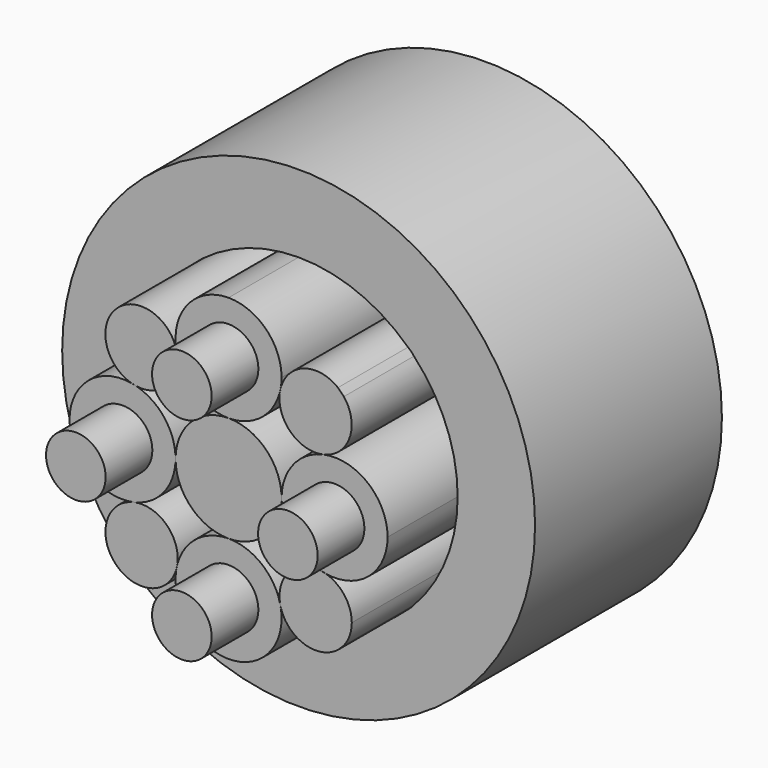
from build123d import *

# Parameters (mm, degrees)
F0_R           = 6.4844466941
F1_DEPTH       = 44.45
F2_DEPTH       = 57.15
F3_DEPTH       = 44.45
F4_DEPTH       = 57.15
F5_DEPTH       = 44.45
F6_DEPTH       = 44.45
F7_DEPTH       = 44.45
F8_DEPTH       = 44.45
F9_DEPTH       = 44.45
F10_DEPTH      = 57.15
F11_DEPTH      = 44.45
F12_DEPTH      = 57.15
F13_DEPTH      = 44.45
F0_R_2         = 51.4356597364
F14_DEPTH      = 25.4
F14_DEPTH_BACK = 25.4


with BuildPart() as f1:
    # F0 (on Front) → F1 (new body)
    with BuildSketch(Plane.XZ):
        with BuildLine():
            ThreePointArc((-11.2475634808, 20.5177545372), (-7.198803281, 14.0527878203), (-1.41e-08, 11.5297964744))
            ThreePointArc((-1.41e-08, 11.5297964744), (7.0440139558, 13.9312449997), (11.1542048678, 20.1353902667))
            ThreePointArc((11.1542048678, 20.1353902667), (11.2430218597, 20.6145358258), (11.3613629352, 21.0872559488))
            ThreePointArc((11.3613629352, 21.0872559488), (11.4889619066, 22.0706629743), (11.5316, 23.0613964744))
            ThreePointArc((11.5316, 23.0613964744), (8.1540725102, 31.2154690801), (-1.351e-07, 34.5929964744))
            ThreePointArc((-1.351e-07, 34.5929964744), (-8.955812233, 30.3257770954), (-11.2835042825, 20.6822517398))
            ThreePointArc((-11.2835042825, 20.6822517398), (-11.2650933427, 20.6000993914), (-11.2475634808, 20.5177545372))
        make_face()
        with Locations((0, 23.0613964744)):
            Circle(F0_R, mode=Mode.SUBTRACT)
    extrude(amount=F1_DEPTH)

    # F0 (on Front) → F2 (join)
    with BuildSketch(Plane.XZ):
        with Locations((0, 23.0613964744)):
            Circle(F0_R)
    extrude(amount=F2_DEPTH)


with BuildPart() as f3:
    # F0 (on Front) → F3 (new body)
    with BuildSketch(Plane.XZ):
        with BuildLine():
            ThreePointArc((-20.5177545372, -11.2475634808), (-14.0527878159, -7.1988032755), (-11.5297964744, 0))
            ThreePointArc((-11.5297964744, 0), (-13.931245004, 7.0440139614), (-20.1353902667, 11.1542048678))
            ThreePointArc((-20.1353902667, 11.1542048678), (-20.6145358258, 11.2430218597), (-21.0872559488, 11.3613629352))
            ThreePointArc((-21.0872559488, 11.3613629352), (-30.4847649711, 8.8244772492), (-34.5929964744, 0))
            ThreePointArc((-34.5929964744, 0), (-30.3257771479, -8.9558121904), (-20.6822517398, -11.2835042825))
            ThreePointArc((-20.6822517398, -11.2835042825), (-20.6000993914, -11.2650933427), (-20.5177545372, -11.2475634808))
        make_face()
        with Locations((-23.0613964744, 0)):
            Circle(F0_R, mode=Mode.SUBTRACT)
    extrude(amount=F3_DEPTH)

    # F0 (on Front) → F4 (join)
    with BuildSketch(Plane.XZ):
        with Locations((-23.0613964744, 0)):
            Circle(F0_R)
    extrude(amount=F4_DEPTH)


with BuildPart() as f5:
    # F0 (on Front) → F5 (new body)
    with BuildSketch(Plane.XZ):
        with BuildLine():
            ThreePointArc((-11.3613629352, -21.0872559488), (-11.2678396528, -20.6091346372), (-11.1542048678, -20.1353902667))
            ThreePointArc((-11.1542048678, -20.1353902667), (-11.0860280113, -19.5410367429), (-11.0632584142, -18.9432192621))
            ThreePointArc((-11.0632584142, -18.9432192621), (-13.9611383538, -12.84792159), (-20.5177545372, -11.2475634808))
            ThreePointArc((-20.5177545372, -11.2475634808), (-20.5999375393, -11.2658341223), (-20.6822517398, -11.2835042825))
            ThreePointArc((-20.6822517398, -11.2835042825), (-26.3373876023, -16.3379232965), (-25.0866608948, -23.8187919556))
            ThreePointArc((-25.0866608948, -23.8187919556), (-24.4475637175, -24.4743137464), (-23.7913434141, -25.1126936753))
            ThreePointArc((-23.7913434141, -25.1126936753), (-16.5011125803, -26.420165188), (-11.3613629352, -21.0872559488))
        make_face()
    extrude(amount=F5_DEPTH)


with BuildPart() as f6:
    # F0 (on Front) → F6 (new body)
    with BuildSketch(Plane.XZ):
        with BuildLine():
            ThreePointArc((-11.0839630463, 18.9225146299), (-11.1249701359, 19.7243181383), (-11.2475634808, 20.5177545372))
            ThreePointArc((-11.2475634808, 20.5177545372), (-11.2658341223, 20.5999375393), (-11.2835042825, 20.6822517398))
            ThreePointArc((-11.2835042825, 20.6822517398), (-16.3379232965, 26.3373876023), (-23.8187919556, 25.0866608948))
            ThreePointArc((-23.8187919556, 25.0866608948), (-24.4743137464, 24.4475637175), (-25.1126936753, 23.7913434141))
            ThreePointArc((-25.1126936753, 23.7913434141), (-26.420165188, 16.5011125803), (-21.0872559488, 11.3613629352))
            ThreePointArc((-21.0872559488, 11.3613629352), (-20.6091346372, 11.2678396528), (-20.1353902667, 11.1542048678))
            ThreePointArc((-20.1353902667, 11.1542048678), (-13.824707228, 12.9585610066), (-11.0839630463, 18.9225146299))
        make_face()
    extrude(amount=F6_DEPTH)


with BuildPart() as f7:
    # F0 (on Front) → F7 (new body)
    with BuildSketch(Plane.XZ):
        with BuildLine():
            ThreePointArc((21.0872559488, -11.3613629352), (20.6091346372, -11.2678396528), (20.1353902667, -11.1542048678))
            ThreePointArc((20.1353902667, -11.1542048678), (13.2429697795, -13.5118710359), (11.2475634808, -20.5177545372))
            ThreePointArc((11.2475634808, -20.5177545372), (11.2658341223, -20.5999375393), (11.2835042825, -20.6822517398))
            ThreePointArc((11.2835042825, -20.6822517398), (16.3379232965, -26.3373876023), (23.8187919556, -25.0866608948))
            ThreePointArc((23.8187919556, -25.0866608948), (24.4743137464, -24.4475637175), (25.1126936753, -23.7913434141))
            ThreePointArc((25.1126936753, -23.7913434141), (26.368021899, -21.4993759121), (26.8024754778, -18.9225146299))
            ThreePointArc((26.8024754778, -18.9225146299), (25.2129258709, -14.183454881), (21.0872559488, -11.3613629352))
        make_face()
    extrude(amount=F7_DEPTH)


with BuildPart() as f8:
    # F0 (on Front) → F8 (new body)
    with BuildSketch(Plane.XZ):
        with BuildLine():
            ThreePointArc((11.1542048678, 20.1353902667), (13.5118710359, 13.2429697795), (20.5177545372, 11.2475634808))
            ThreePointArc((20.5177545372, 11.2475634808), (20.5999375393, 11.2658341223), (20.6822517398, 11.2835042825))
            ThreePointArc((20.6822517398, 11.2835042825), (25.0706091756, 14.0474208877), (26.7817708457, 18.9432192621))
            ThreePointArc((26.7817708457, 18.9432192621), (26.3459071533, 21.5241399716), (25.0866608948, 23.8187919556))
            ThreePointArc((25.0866608948, 23.8187919556), (24.4475637175, 24.4743137464), (23.7913434141, 25.1126936753))
            ThreePointArc((23.7913434141, 25.1126936753), (16.5011125803, 26.420165188), (11.3613629352, 21.0872559488))
            ThreePointArc((11.3613629352, 21.0872559488), (11.2678396528, 20.6091346372), (11.1542048678, 20.1353902667))
        make_face()
    extrude(amount=F8_DEPTH)


with BuildPart() as f9:
    # F0 (on Front) → F9 (new body)
    with BuildSketch(Plane.XZ):
        with BuildLine():
            ThreePointArc((20.5177545372, 11.2475634808), (14.0527878159, 7.1988032755), (11.5297964744, 0))
            ThreePointArc((11.5297964744, 0), (13.931245004, -7.0440139614), (20.1353902667, -11.1542048678))
            ThreePointArc((20.1353902667, -11.1542048678), (20.6145358258, -11.2430218597), (21.0872559488, -11.3613629352))
            ThreePointArc((21.0872559488, -11.3613629352), (30.4847649711, -8.8244772492), (34.5929964744, 0))
            ThreePointArc((34.5929964744, 0), (30.3257771479, 8.9558121904), (20.6822517398, 11.2835042825))
            ThreePointArc((20.6822517398, 11.2835042825), (20.6000993914, 11.2650933427), (20.5177545372, 11.2475634808))
        make_face()
        with Locations((23.0613964744, 0)):
            Circle(F0_R, mode=Mode.SUBTRACT)
    extrude(amount=F9_DEPTH)

    # F0 (on Front) → F10 (join)
    with BuildSketch(Plane.XZ):
        with Locations((23.0613964744, 0)):
            Circle(F0_R)
    extrude(amount=F10_DEPTH)


with BuildPart() as f11:
    # F0 (on Front) → F11 (new body)
    with BuildSketch(Plane.XZ):
        with BuildLine():
            ThreePointArc((11.2475634808, -20.5177545372), (7.1988032634, -14.0527878062), (-3.1e-08, -11.5297964744))
            ThreePointArc((-3.1e-08, -11.5297964744), (-7.0440139736, -13.9312450134), (-11.1542048678, -20.1353902667))
            ThreePointArc((-11.1542048678, -20.1353902667), (-11.2430218597, -20.6145358258), (-11.3613629352, -21.0872559488))
            ThreePointArc((-11.3613629352, -21.0872559488), (-8.8244772799, -30.4847649346), (-9.53e-08, -34.5929964744))
            ThreePointArc((-9.53e-08, -34.5929964744), (8.1540725243, -31.215469066), (11.5316, -23.0613964744))
            ThreePointArc((11.5316, -23.0613964744), (11.4694083662, -21.8653737788), (11.2835042825, -20.6822517398))
            ThreePointArc((11.2835042825, -20.6822517398), (11.2650933427, -20.6000993914), (11.2475634808, -20.5177545372))
        make_face()
        with Locations((0, -23.0613964744)):
            Circle(F0_R, mode=Mode.SUBTRACT)
    extrude(amount=F11_DEPTH)

    # F0 (on Front) → F12 (join)
    with BuildSketch(Plane.XZ):
        with Locations((0, -23.0613964744)):
            Circle(F0_R)
    extrude(amount=F12_DEPTH)


with BuildPart() as f13:
    # F0 (on Front) → F13 (new body)
    with BuildSketch(Plane.XZ):
        with BuildLine():
            ThreePointArc((-3.1e-08, -11.5297964744), (8.1527972618, -8.1527972837), (11.5297964744, 0))
            ThreePointArc((11.5297964744, 0), (8.1527972677, 8.1527972777), (-1.41e-08, 11.5297964744))
            ThreePointArc((-1.41e-08, 11.5297964744), (-8.1527972777, 8.1527972677), (-11.5297964744, 0))
            ThreePointArc((-11.5297964744, 0), (-8.1527972837, -8.1527972618), (-3.1e-08, -11.5297964744))
        make_face()
    extrude(amount=F13_DEPTH)


with BuildPart() as f14:
    # F0 (on Front) → F14 (new body, two sides)
    with BuildSketch(Plane.XZ) as f14_sk:
        Circle(F0_R_2)
        with BuildLine():
            ThreePointArc((25.0866608948, 23.8187919556), (32.1286334674, 12.8228825384), (34.5929964744, 0))
            ThreePointArc((34.5929964744, 0), (32.1356400967, -12.8053129853), (25.1126936753, -23.7913434141))
            ThreePointArc((25.1126936753, -23.7913434141), (24.5035904944, -24.4768084665), (23.8187919556, -25.0866608948))
            ThreePointArc((23.8187919556, -25.0866608948), (12.8228824942, -32.128633485), (-9.53e-08, -34.5929964744))
            ThreePointArc((-9.53e-08, -34.5929964744), (-12.8053130296, -32.135640079), (-23.7913434141, -25.1126936753))
            ThreePointArc((-23.7913434141, -25.1126936753), (-24.4768084665, -24.5035904944), (-25.0866608948, -23.8187919556))
            ThreePointArc((-25.0866608948, -23.8187919556), (-32.1286334674, -12.8228825384), (-34.5929964744, 0))
            ThreePointArc((-34.5929964744, 0), (-32.1356400967, 12.8053129853), (-25.1126936753, 23.7913434141))
            ThreePointArc((-25.1126936753, 23.7913434141), (-24.5035904944, 24.4768084665), (-23.8187919556, 25.0866608948))
            ThreePointArc((-23.8187919556, 25.0866608948), (-12.8228826012, 32.1286334423), (-1.351e-07, 34.5929964744))
            ThreePointArc((-1.351e-07, 34.5929964744), (12.8053129226, 32.1356401217), (23.7913434141, 25.1126936753))
            ThreePointArc((23.7913434141, 25.1126936753), (24.4768084665, 24.5035904944), (25.0866608948, 23.8187919556))
        make_face(mode=Mode.SUBTRACT)
    extrude(amount=F14_DEPTH)
    extrude(f14_sk.sketch, amount=-F14_DEPTH_BACK)


solid = Compound([f1.part, f3.part, f5.part, f6.part, f7.part, f8.part, f9.part, f11.part, f13.part, f14.part])
